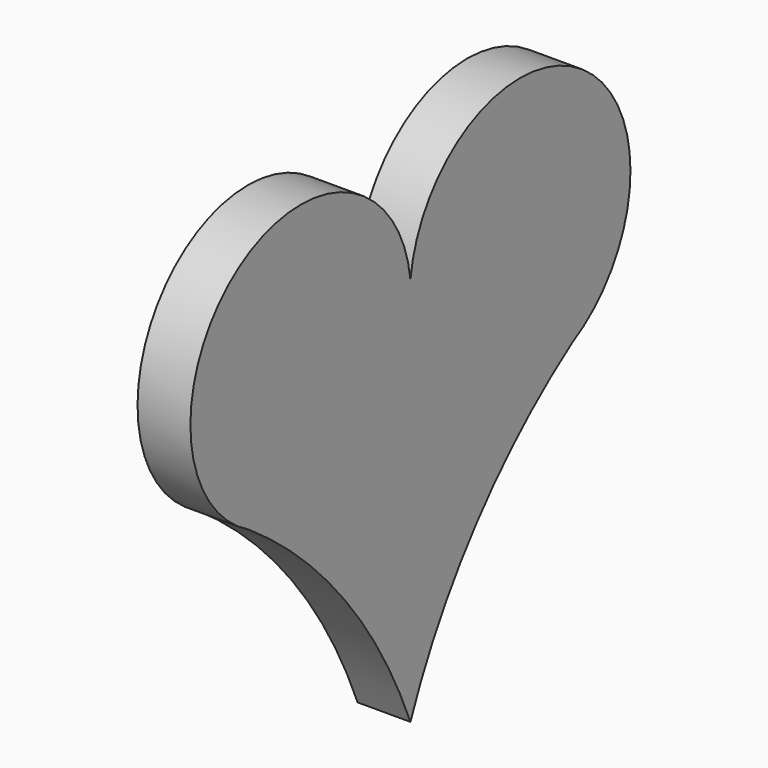
from build123d import *

# Parameters (mm, degrees)
F2_DEPTH = 7


with BuildPart() as f2:
    # F0 (on Right) → F2 (new body)
    with BuildSketch(Plane.YZ):
        with BuildLine():
            ThreePointArc((0, -33.299897), (10.883851, -14.646643), (26.754514, 0))
            ThreePointArc((26.754514, 0), (28.446937, 31.212507), (0, 18.256555))
            ThreePointArc((0, 18.256555), (-28.446937, 31.212507), (-26.754514, 0))
            ThreePointArc((-26.754514, 0), (-10.883851, -14.646643), (0, -33.299897))
        make_face()
    extrude(amount=-F2_DEPTH)


solid = f2.part
